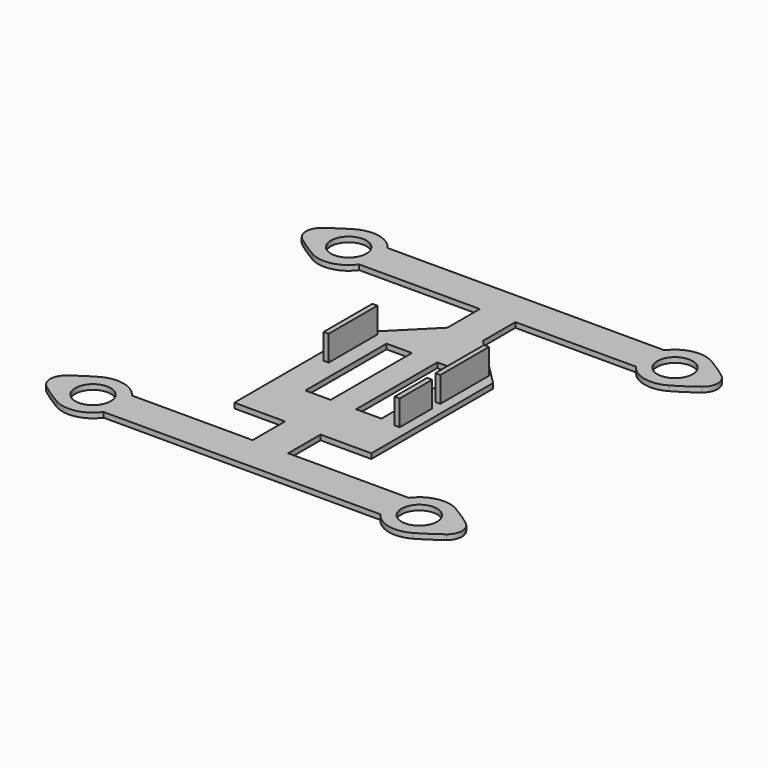
from build123d import *

# Parameters (mm, degrees)
F0_R     = 88.9
F0_W     = 127
F0_H     = 508
F1_DEPTH = 25.4
F2_W     = 25.4
F2_H     = 12.7
F2_H_2   = 292.1
F2_H_3   = 304.8
F2_H_4   = 203.2
F3_DEPTH = 127


with BuildPart() as f1:
    # F0 (on Top) → F1 (new body)
    with BuildSketch(Plane.XY):
        with BuildLine():
            ThreePointArc((-1000.085346, 739.070513), (-947.597523, 701.69854), (-892.846368, 667.728745))
            ThreePointArc((-892.846368, 667.728745), (-784.551405, 650.728892), (-692.86208, 710.811016))
            Line((-692.86208, 710.811016), (-88.9, 710.811016))
            Line((-88.9, 710.811016), (-88.9, 508))
            Line((-88.9, 508), (-342.9, 254))
            Line((-342.9, 254), (-342.9, -508))
            Line((-342.9, -508), (-88.9, -508))
            Line((-88.9, -508), (-88.9, -710.811016))
            Line((-88.9, -710.811016), (-692.86208, -710.811016))
            ThreePointArc((-692.86208, -710.811016), (-784.551405, -650.728892), (-892.846368, -667.728745))
            ThreePointArc((-892.846368, -667.728745), (-947.597523, -701.69854), (-1000.085346, -739.070513))
            ThreePointArc((-1000.085346, -739.070513), (-1030.142423, -799.711016), (-1000.085346, -860.35152))
            ThreePointArc((-1000.085346, -860.35152), (-947.597523, -897.723493), (-892.846368, -931.693288))
            ThreePointArc((-892.846368, -931.693288), (-784.551405, -948.693141), (-692.86208, -888.611016))
            Line((-692.86208, -888.611016), (692.86208, -888.611016))
            ThreePointArc((692.86208, -888.611016), (784.551405, -948.693141), (892.846368, -931.693288))
            ThreePointArc((892.846368, -931.693288), (947.597523, -897.723493), (1000.085346, -860.35152))
            ThreePointArc((1000.085346, -860.35152), (1030.142423, -799.711016), (1000.085346, -739.070513))
            ThreePointArc((1000.085346, -739.070513), (947.597523, -701.69854), (892.846368, -667.728745))
            ThreePointArc((892.846368, -667.728745), (784.551405, -650.728892), (692.86208, -710.811016))
            Line((692.86208, -710.811016), (88.9, -710.811016))
            Line((88.9, -710.811016), (88.9, -508))
            Line((88.9, -508), (342.9, -508))
            Line((342.9, -508), (342.9, 254))
            Line((342.9, 254), (88.9, 508))
            Line((88.9, 508), (88.9, 710.811016))
            Line((88.9, 710.811016), (692.86208, 710.811016))
            ThreePointArc((692.86208, 710.811016), (784.551405, 650.728892), (892.846368, 667.728745))
            ThreePointArc((892.846368, 667.728745), (947.597523, 701.69854), (1000.085346, 739.070513))
            ThreePointArc((1000.085346, 739.070513), (1030.142423, 799.711016), (1000.085346, 860.35152))
            ThreePointArc((1000.085346, 860.35152), (947.597523, 897.723493), (892.846368, 931.693288))
            ThreePointArc((892.846368, 931.693288), (784.551405, 948.693141), (692.86208, 888.611016))
            Line((692.86208, 888.611016), (-692.86208, 888.611016))
            ThreePointArc((-692.86208, 888.611016), (-784.551405, 948.693141), (-892.846368, 931.693288))
            ThreePointArc((-892.846368, 931.693288), (-947.597523, 897.723493), (-1000.085346, 860.35152))
            ThreePointArc((-1000.085346, 860.35152), (-1030.142423, 799.711016), (-1000.085346, 739.070513))
        make_face()
        with Locations((-816.646368, -799.711016)):
            Circle(F0_R, mode=Mode.SUBTRACT)
        with Locations((-127, 0)):
            Rectangle(F0_W, F0_H, mode=Mode.SUBTRACT)
        with Locations((816.646368, -799.711016)):
            Circle(F0_R, mode=Mode.SUBTRACT)
        with Locations((127, 0)):
            Rectangle(F0_W, F0_H, mode=Mode.SUBTRACT)
        with Locations((-816.646368, 799.711016)):
            Circle(F0_R, mode=Mode.SUBTRACT)
        with Locations((816.646368, 799.711016)):
            Circle(F0_R, mode=Mode.SUBTRACT)
    extrude(amount=F1_DEPTH)

    # F2 (on face) → F3 (join)
    with BuildSketch(Plane.XY.offset(25.4)):
        with Locations((-279.4, -6.35)):
            Rectangle(F2_W, F2_H)
        with Locations((-279.4, 146.05)):
            Rectangle(F2_W, F2_H_2)
        with Locations((279.4, 139.7)):
            Rectangle(F2_W, F2_H_3)
        with Locations((279.4, -165.1)):
            Rectangle(F2_W, F2_H_4)
    extrude(amount=F3_DEPTH)


solid = f1.part
